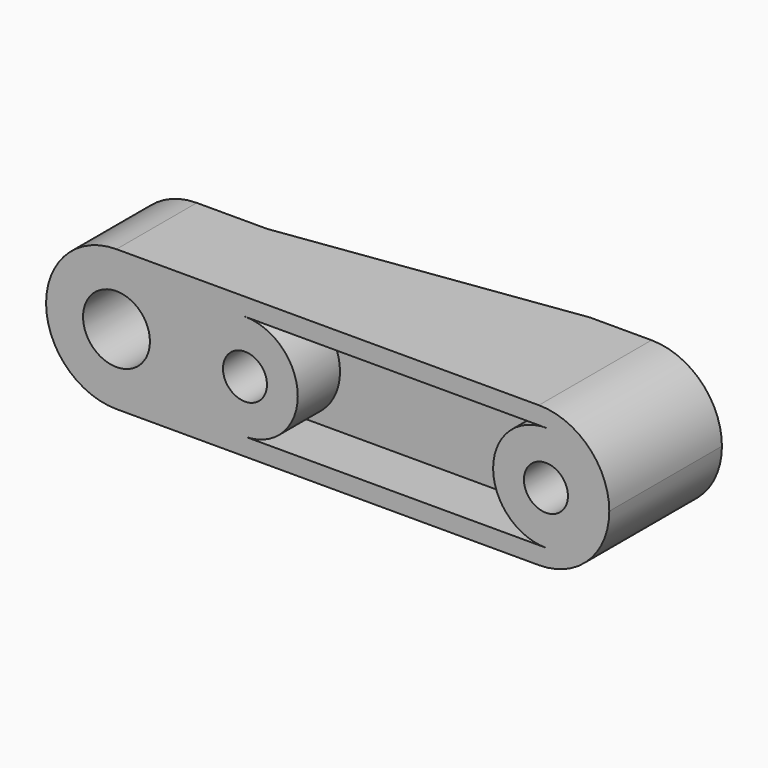
from build123d import *

# Parameters (mm, degrees)
F1_DEPTH = 8
F2_R     = 1.9
F2_R_2   = 1.25
F3_DEPTH = 25
F4_W     = 4
F4_H     = 2.3
F5_DEPTH = 25
F7_DEPTH = 3


with BuildPart() as f1:
    # F0 (on Front) → F1 (new body)
    with BuildSketch(Plane.XZ):
        with BuildLine():
            ThreePointArc((0, 4), (1.171573, 1.171573), (4, 0))
            Line((4, 0), (28, 0))
            ThreePointArc((28, 0), (30.828427, 1.171573), (32, 4))
            ThreePointArc((32, 4), (30.828427, 6.828427), (28, 8))
            Line((28, 8), (4, 8))
            ThreePointArc((4, 8), (1.171573, 6.828427), (0, 4))
        make_face()
    extrude(amount=-F1_DEPTH)

    # F2 (on face) → F3 (cut)
    with BuildSketch(Plane.XZ):
        with Locations((4, 4)):
            Circle(F2_R)
        with Locations((11.3, 4)):
            Circle(F2_R_2)
        with Locations((28.4, 4)):
            Circle(F2_R_2)
    extrude(amount=-F3_DEPTH, mode=Mode.SUBTRACT)

    # F4 (on face) → F5 (cut)
    with BuildSketch(Plane.XY.offset(8)):
        Polygon((4, 8), (4, 5.7), (8, 5.7), (24.5, 8), align=None)
        with Locations((2, 6.85)):
            Rectangle(F4_W, F4_H)
    extrude(amount=-F5_DEPTH, mode=Mode.SUBTRACT)

    # F6 (on face) → F7 (cut)
    with BuildSketch(Plane.XZ):
        with BuildLine():
            ThreePointArc((11.3, 7), (14.3, 4), (11.3, 1))
            Line((11.3, 1), (28.4, 1))
            ThreePointArc((28.4, 1), (25.4, 4), (28.4, 7))
            Line((28.4, 7), (11.3, 7))
        make_face()
    extrude(amount=-F7_DEPTH, mode=Mode.SUBTRACT)


solid = f1.part
